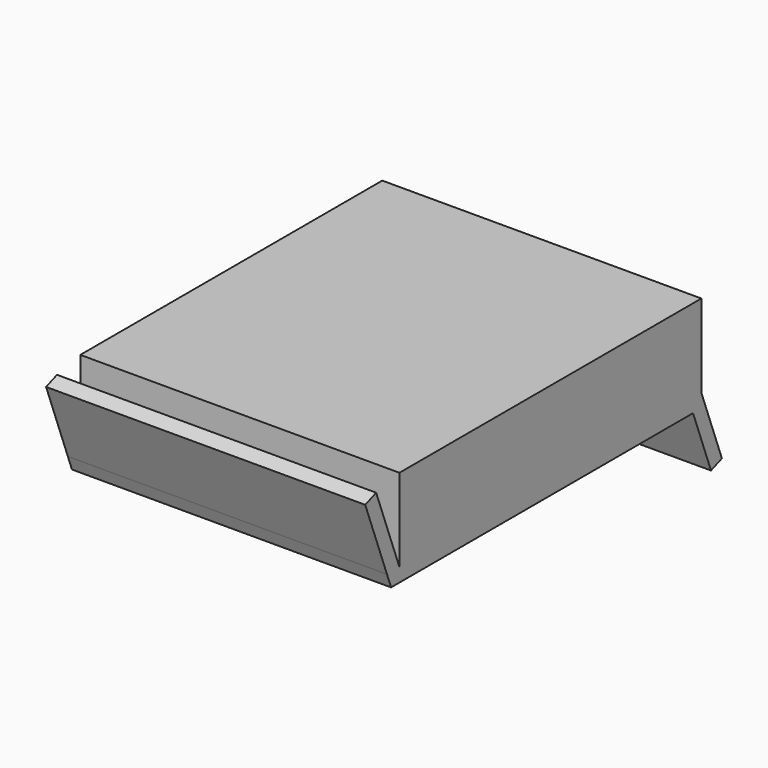
from build123d import *

# Parameters (mm, degrees)
F0_W     = 55.626
F0_H     = 55.626
F1_DEPTH = 14.478
F2_W     = 55.626
F2_H     = 14.478
F3_DEPTH = 10.16
F5_DEPTH = 55.626


with BuildPart() as f1:
    # F0 (on Top) → F1 (new body)
    with BuildSketch(Plane.XY):
        Rectangle(F0_W, F0_H)
    extrude(amount=F1_DEPTH)

    # F2 (on face) → F3 (join)
    with BuildSketch(Plane.XZ.offset(27.813)):
        with Locations((0, 7.239)):
            Rectangle(F2_W, F2_H)
    extrude(amount=F3_DEPTH)

    # F4 (on face) → F5 (join)
    with BuildSketch(Plane(origin=(-27.813, 0, 0), x_dir=(0, -1, 0), z_dir=(-1, 0, 0))):
        Polygon((37.973, 0), (-27.813, 0), (-32.288288, -11.885361), (-29.911216, -12.780418), (-25.993962, -2.377072), (39.792038, -2.377072), (40.687095, 0), (45.427891, 12.59049), (43.050819, 13.485548), align=None)
    extrude(amount=-F5_DEPTH)


solid = f1.part
